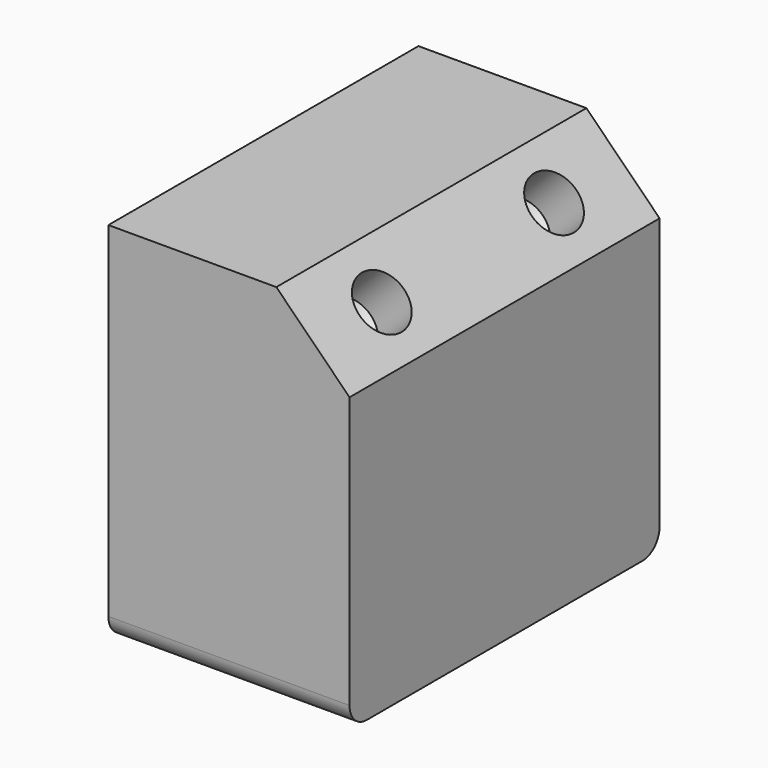
from build123d import *

# Parameters (mm, degrees)
F0_W     = 56
F0_H     = 90
F1_DEPTH = 25
F2_DEPTH = 60
F3_SIZE  = 17
F5_D     = 13
F5_DEPTH = 11
F5_TIP   = 3.9055940237
F6_R     = 5


with BuildPart() as f1:
    # F0 (on Top) → F1 (new body)
    with BuildSketch(Plane.XY):
        with Locations((28, 45)):
            Rectangle(F0_W, F0_H)
    extrude(amount=F1_DEPTH)

    # F2 (add): a face of the model
    f2_faces = [f1.faces().sort_by_distance(p)[0] for p in [
        (28, 45, 25),
    ]]
    extrude(f2_faces, amount=F2_DEPTH)

    # F3
    f3_edges = [f1.edges().sort_by_distance(p)[0] for p in [
        (56, 45, 85),
    ]]
    chamfer(f3_edges, length=F3_SIZE)

    # F5
    with Locations(Plane(origin=(62, 0, 62), x_dir=(0, 1, 0), z_dir=(0.7071067812, 0, 0.7071067812))):
        with Locations((20, 20.5269119346), (70, 20.5269119346)):
            Hole(F5_D / 2, depth=F5_DEPTH)
            with Locations((0, 0, -(F5_DEPTH + F5_TIP / 2))):  # 118° drill point
                Cone(0, F5_D / 2, F5_TIP, mode=Mode.SUBTRACT)

    # F6
    f6_edges = [f1.edges().sort_by_distance(p)[0] for p in [
        (28, 0, 0),
        (28, 90, 0),
    ]]
    fillet(f6_edges, radius=F6_R)


solid = f1.part
